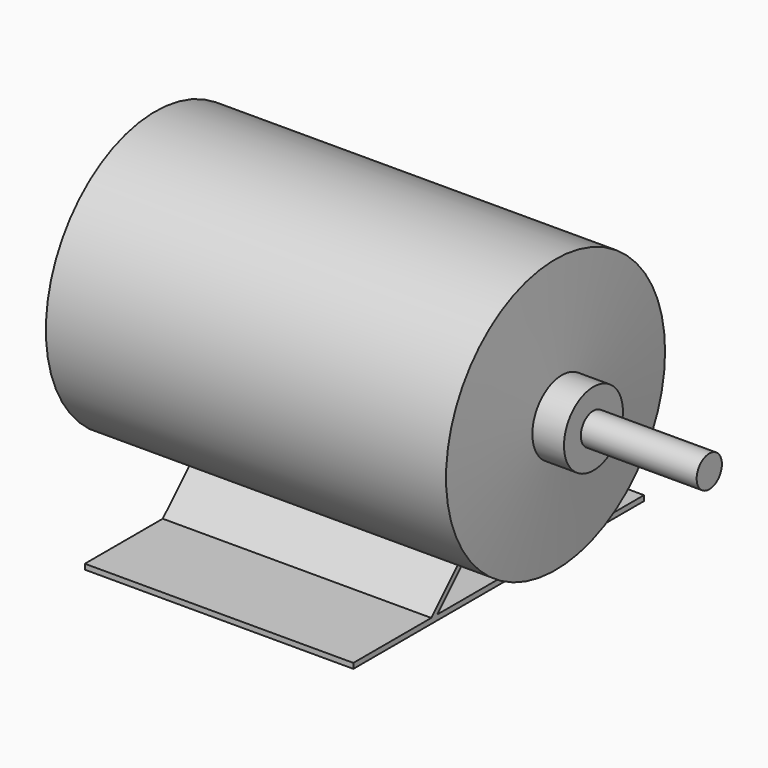
from build123d import *

# Parameters (mm, degrees)
F2_R     = 9.525
F3_DEPTH = 69.85
F6_DEPTH = 161.925


with BuildPart() as f1:
    # F0 (on Top) → F1 (revolve)
    with BuildSketch(Plane.XY):
        Polygon((-287.02, 0), (0, 0), (0, 22.225), (-19.05, 22.225), (-22.86, 82.55), (-264.16, 82.55), (-267.97, 22.225), (-287.02, 22.225), align=None)
    revolve(axis=Axis((-143.51, 0, 0), (1, 0, 0)))

    # F2 (on face) → F3 (join)
    with BuildSketch(Plane.YZ):
        Circle(F2_R)
    extrude(amount=F3_DEPTH)

    # F5 (on offset) → F6 (join)
    with BuildSketch(Plane.YZ.offset(-57.15)):
        Polygon((-50.8, -98.425), (-109.5375, -98.425), (-109.5375, -101.6), (109.5375, -101.6), (109.5375, -98.425), (50.8, -98.425), (14.878976, -62.503976), (12.633911, -64.74904), (46.309872, -98.425), (-46.309872, -98.425), (-12.633911, -64.74904), (-14.878976, -62.503976), align=None)
    extrude(amount=-F6_DEPTH)


solid = f1.part
